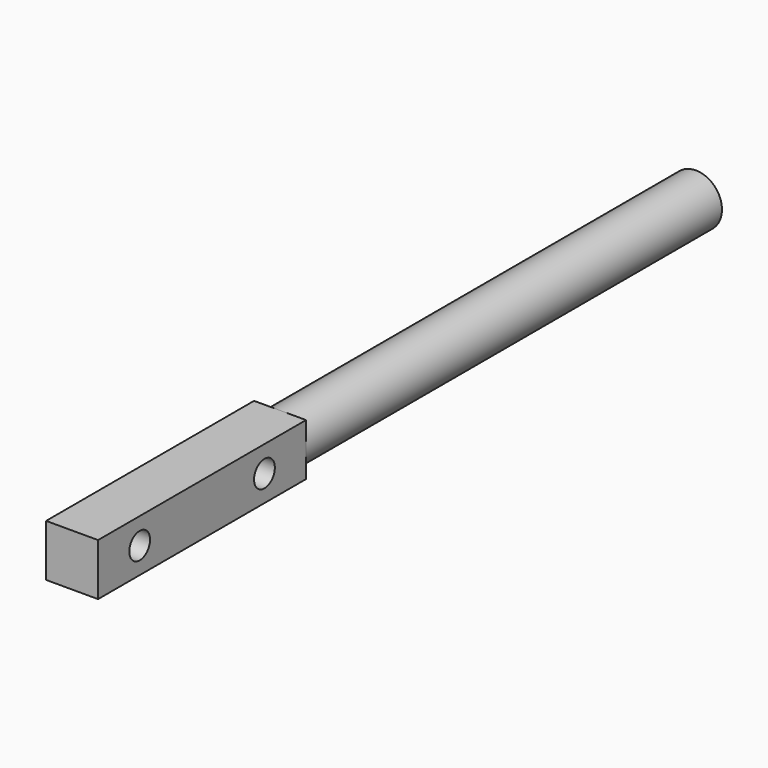
from build123d import *

# Parameters (mm, degrees)
F0_W     = 12.7
F0_H     = 12.7
F1_DEPTH = 63.5
F2_R     = 6.35
F3_DEPTH = 127
F5_D     = 6.35


with BuildPart() as f1:
    # F0 (on Front) → F1 (new body)
    with BuildSketch(Plane.XZ):
        Rectangle(F0_W, F0_H)
    extrude(amount=F1_DEPTH)

    # F2 (on face) → F3 (join)
    with BuildSketch(Plane(origin=(0, 0, 0), x_dir=(-1, 0, 0), z_dir=(0, 1, 0))):
        Circle(F2_R)
    extrude(amount=F3_DEPTH)

    # F5 (through all)
    with Locations(Plane.YZ.offset(6.35)):
        with Locations((-12.7, 0), (-50.8, 0)):
            Hole(F5_D / 2)


solid = f1.part
